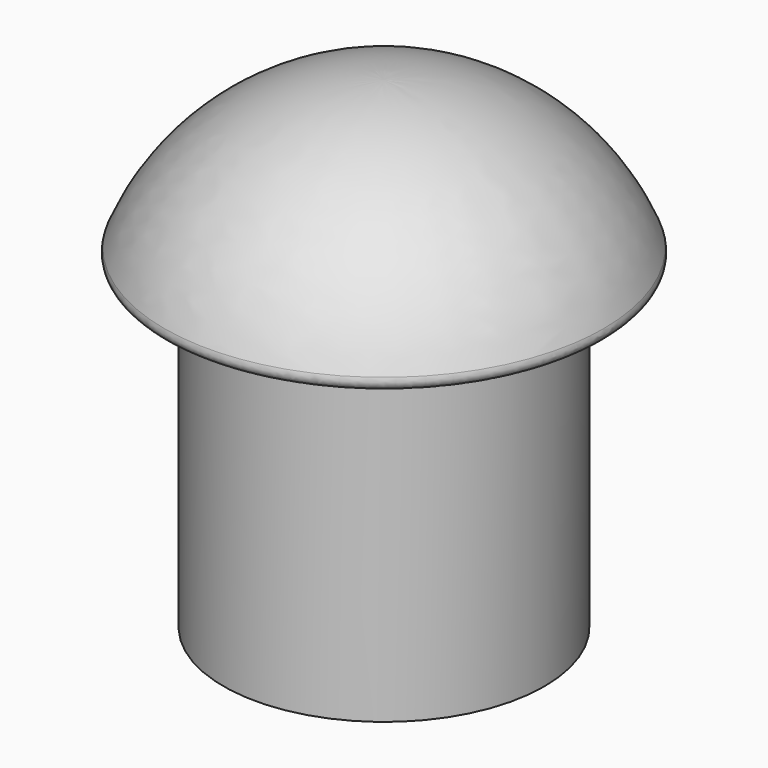
from build123d import *

# Parameters (mm, degrees)
F2_R = 0.3


with BuildPart() as f1:
    # F0 (on Front) → F1 (revolve)
    with BuildSketch(Plane.XZ):
        with BuildLine():
            Line((0, 15), (0, 0))
            Line((0, 0), (5, 0))
            Line((5, 0), (5, 10))
            Line((5, 10), (7, 10))
            ThreePointArc((7, 10), (4.301163, 13.621628), (0, 15))
        make_face()
    revolve(axis=Axis((0, 0, 9.932759), (0, 0, 1)))

    # F2
    f2_edges = [f1.edges().sort_by_distance(p)[0] for p in [
        (-7, 0, 10),
    ]]
    fillet(f2_edges, radius=F2_R)


solid = f1.part
